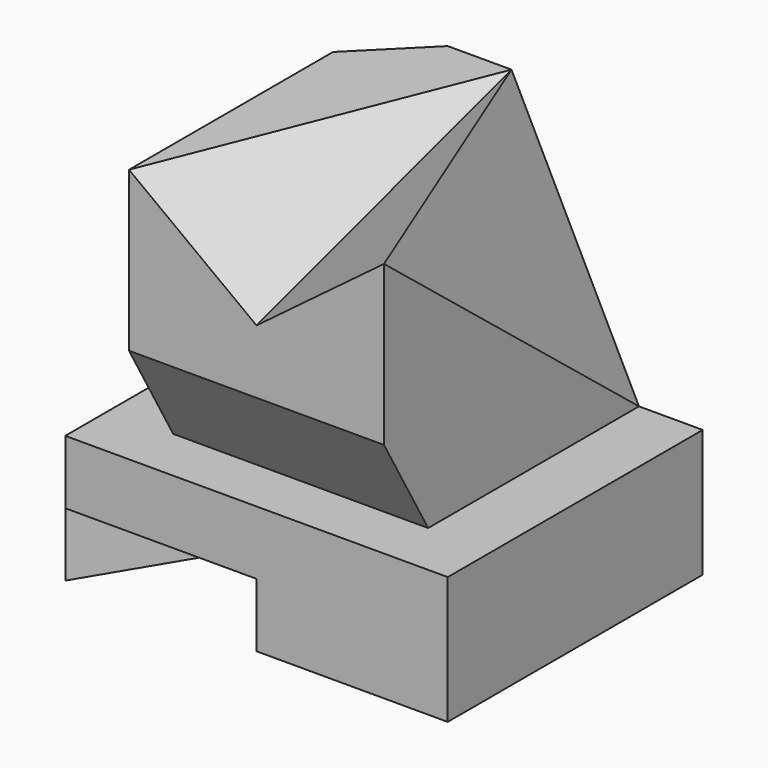
from build123d import *

# Parameters (mm, degrees)
F0_W      = 60
F0_H      = 50
F1_DEPTH  = 60
F2_W      = 10
F2_H      = 50
F3_DEPTH  = 40
F5_DEPTH  = 10
F10_DEPTH = 50.001


with BuildPart() as f1:
    # F0 (on Top) → F1 (new body)
    with BuildSketch(Plane.XY):
        with Locations((30, 25)):
            Rectangle(F0_W, F0_H)
    extrude(amount=F1_DEPTH)

    # F2 (on face) → F3 (cut)
    with BuildSketch(Plane.XY.offset(60)):
        Polygon((0, 50), (0, 0), (10, 0), (10, 40), (10, 50), align=None)
        with Locations((55, 25)):
            Rectangle(F2_W, F2_H)
        Polygon((10, 50), (10, 40), (20, 50), align=None)
    extrude(amount=-F3_DEPTH, mode=Mode.SUBTRACT)

    # F4 (on face) → F5 (cut)
    with BuildSketch(Plane(origin=(0, 0, 0), x_dir=(1, 0, 0), z_dir=(0, 0, -1))):
        Polygon((30, -50), (60, -50), (30, 0), (0, 0), align=None)
    extrude(amount=-F5_DEPTH, mode=Mode.SUBTRACT)

    # F8: sweep along a path in F7
    with BuildLine(Plane.YZ.offset(50)) as f8_path:
        Line((0, 45), (50, 60))
    # F6 (on face) → F8 (sweep, cut)
    with BuildSketch(Plane.XZ):
        Polygon((30, 45), (50, 60), (10, 60), align=None)
    sweep(path=f8_path.line, mode=Mode.SUBTRACT)

    # F9 (on face) → F10 (cut, through all)
    with BuildSketch(Plane.YZ.offset(50)):
        Polygon((0, 35), (0, 20), (8.660254, 20), align=None)
    extrude(amount=-F10_DEPTH, mode=Mode.SUBTRACT)

    # F13: sweep along a path in F12
    with BuildLine(Plane(origin=(0, 50, 0), x_dir=(-1, 0, 0), z_dir=(0, 1, 0))) as f13_path:
        Line((-50, 20), (-30, 60))
    # F11 (on face) → F13 (sweep, cut)
    with BuildSketch(Plane.YZ.offset(50)):
        Polygon((0, 60), (50, 20), (50, 60), align=None)
    sweep(path=f13_path.line, mode=Mode.SUBTRACT)


solid = f1.part
